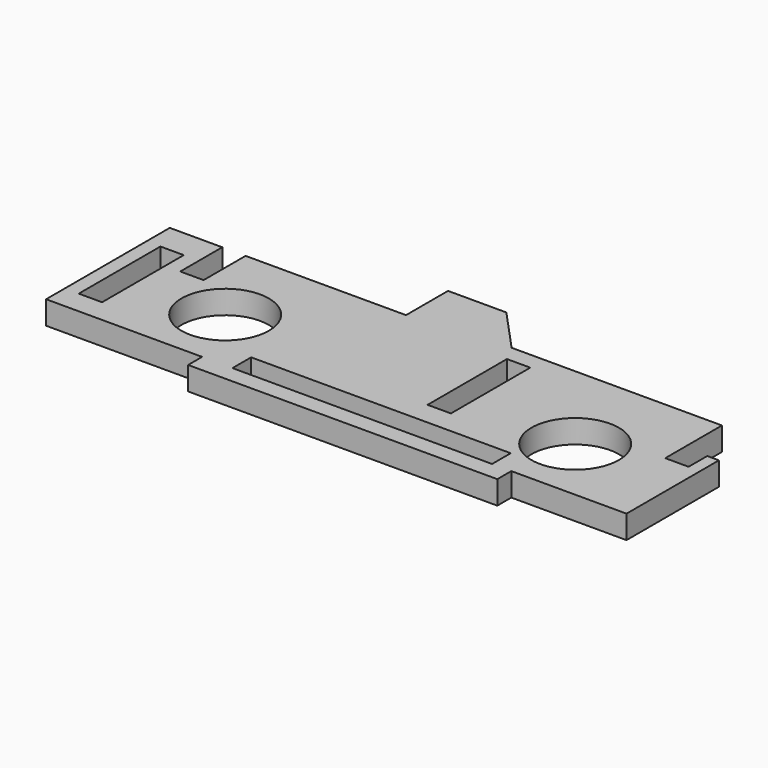
from build123d import *

# Parameters (mm, degrees)
F0_W     = 4
F0_H     = 17.5
F0_R     = 7.5
F0_H_2   = 17
F1_DEPTH = 4


with BuildPart() as f1:
    # F0 (on Top) → F1 (new body)
    with BuildSketch(Plane.XY):
        Polygon((9, 0), (0, 0), (0, -26.5), (26.75, -26.5), (31.95, -26.5), (31.95, -22.5), (76.45, -22.5), (76.45, -26.5), (79.75, -26.5), (99.5, -26.5), (99.5, -6.7), (97.5, -6.7), (97.5, -10.7), (93.5, -10.7), (93.5, 1.444), (57.45, 1.444), (50.5, 9), (40.5, 9), (40.5, 0), (13, 0), (13, -9), (9, -9), align=None)
        with Locations((4.4, -13.75)):
            Rectangle(F0_W, F0_H, mode=Mode.SUBTRACT)
        with Locations((21.5, -15)):
            Circle(F0_R, mode=Mode.SUBTRACT)
        with Locations((81.5, -15)):
            Circle(F0_R, mode=Mode.SUBTRACT)
        with Locations((61, -10)):
            Rectangle(F0_W, F0_H_2, mode=Mode.SUBTRACT)
        Polygon((31.95, -26.5), (26.75, -26.5), (26.75, -29.5), (79.75, -29.5), (79.75, -26.5), (76.45, -26.5), align=None)
    extrude(amount=F1_DEPTH)


solid = f1.part
